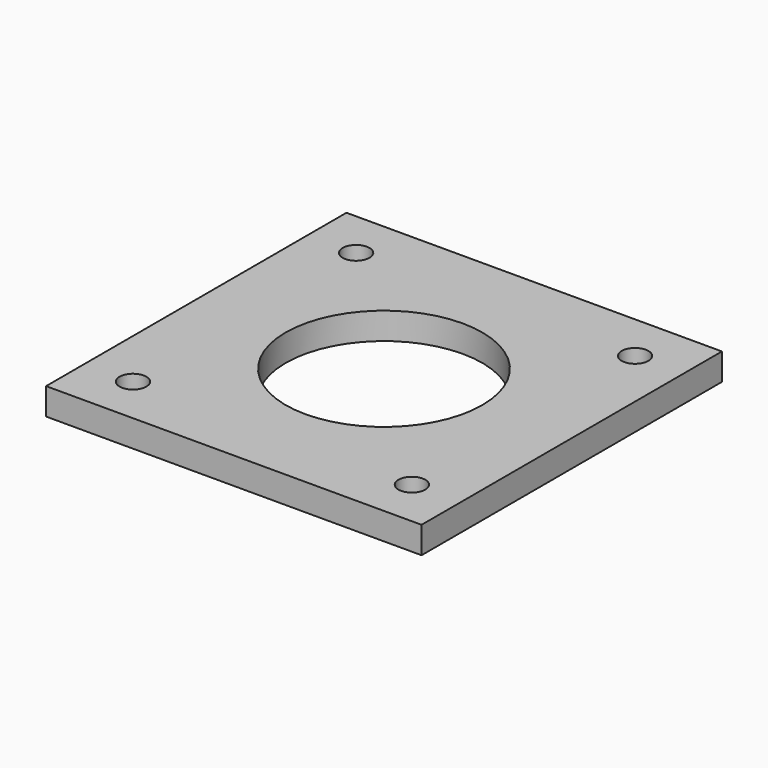
from build123d import *

# Parameters (mm, degrees)
SKETCH_W   = 42
SKETCH_H   = 42
SKETCH_R   = 11
SKETCH_R_2 = 1.5
PAD_DEPTH  = 3


with BuildPart() as part:
    # Sketch → Pad (new body)
    with BuildSketch(Plane.XY):
        Rectangle(SKETCH_W, SKETCH_H)
        Circle(SKETCH_R, mode=Mode.SUBTRACT)
        with Locations((15.6, 15.6)):
            Circle(SKETCH_R_2, mode=Mode.SUBTRACT)
        with Locations((15.6, -15.6)):
            Circle(SKETCH_R_2, mode=Mode.SUBTRACT)
        with Locations((-15.6, -15.6)):
            Circle(SKETCH_R_2, mode=Mode.SUBTRACT)
        with Locations((-15.6, 15.6)):
            Circle(SKETCH_R_2, mode=Mode.SUBTRACT)
    extrude(amount=PAD_DEPTH)


solid = part.part
